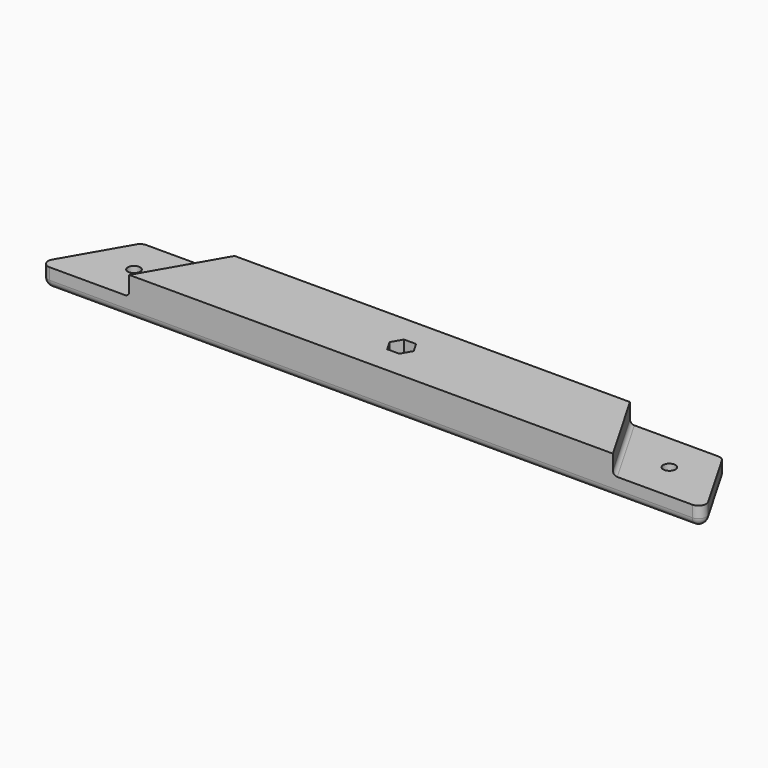
from build123d import *

# Parameters (mm, degrees)
PAD_DEPTH       = 10
POCKET_DEPTH    = 5
SKETCH002_R     = 1.6
POCKET001_DEPTH = 10.001
SKETCH003_R     = 1.6
POCKET002_DEPTH = 362.846575
POCKET003_DEPTH = 5
SKETCH005_R     = 3.1
POCKET004_DEPTH = 2
FILLET_R        = 2
FILLET001_R     = 2
FILLET002_R     = 2
FILLET003_R     = 2
FILLET004_R     = 2
FILLET005_R     = 1
FILLET006_R     = 1


with BuildPart() as part:
    # Sketch → Pad (new body)
    with BuildSketch(Plane.XY):
        Polygon((-75.952995, 10), (-87.5, -10), (87.5, -10), (75.952995, 10), align=None)
    extrude(amount=PAD_DEPTH)

    # Sketch001 → Pocket (cut)
    with BuildSketch(Plane.XY.offset(10)):
        Polygon((-75.952995, 10), (-51.704283, 10), (-63.251289, -10), (-87.5, -10), align=None)
    pocket = extrude(amount=-POCKET_DEPTH, mode=Mode.SUBTRACT)

    # Mirrored: Pocket across Sketch001 V_Axis
    add(pocket.mirror(Plane(origin=(0, 0, 10), x_dir=(0, 0, 1), z_dir=(1, 0, 0))), mode=Mode.SUBTRACT)

    # Sketch002 → Pocket001 (cut, through all)
    with BuildSketch(Plane(origin=(0, 0, 0), x_dir=(1, 0, 0), z_dir=(0, 0, -1))):
        Circle(SKETCH002_R)
    extrude(amount=-POCKET001_DEPTH, mode=Mode.SUBTRACT)

    # Sketch003 → Pocket002 (cut, through all)
    with BuildSketch(Plane(origin=(0, 0, 0), x_dir=(1, 0, 0), z_dir=(0, 0, -1))):
        with Locations((-70, 0)):
            Circle(SKETCH003_R)
    pocket002 = extrude(amount=-POCKET002_DEPTH, mode=Mode.SUBTRACT)

    # Mirrored001: Pocket002 across Sketch003 V_Axis
    add(pocket002.mirror(Plane(origin=(0, 0, 0), x_dir=(0, 0, -1), z_dir=(1, 0, 0))), mode=Mode.SUBTRACT)

    # Sketch004 → Pocket003 (cut)
    with BuildSketch(Plane.XY.offset(10)):
        Polygon((3.175426, 0), (1.587713, 2.75), (-1.587713, 2.75), (-3.175426, 0), (-1.587713, -2.75), (1.587713, -2.75), align=None)
    extrude(amount=-POCKET003_DEPTH, mode=Mode.SUBTRACT)

    # Sketch005 → Pocket004 (cut)
    with BuildSketch(Plane(origin=(0, 0, 0), x_dir=(1, 0, 0), z_dir=(0, 0, -1))):
        with Locations((-70, 0)):
            Circle(SKETCH005_R)
    pocket004 = extrude(amount=-POCKET004_DEPTH, mode=Mode.SUBTRACT)

    # Mirrored002: Pocket004 across Sketch005 V_Axis
    add(pocket004.mirror(Plane(origin=(0, 0, 0), x_dir=(0, 0, -1), z_dir=(1, 0, 0))), mode=Mode.SUBTRACT)

    # Fillet
    fillet_edges = [part.edges().sort_by_distance(p)[0] for p in [
        (-75.952995, 10, 2.5),
    ]]
    fillet(fillet_edges, radius=FILLET_R)

    # Fillet001
    fillet001_edges = [part.edges().sort_by_distance(p)[0] for p in [
        (-87.5, -10, 2.5),
    ]]
    fillet(fillet001_edges, radius=FILLET001_R)

    # Fillet002
    fillet002_edges = [part.edges().sort_by_distance(p)[0] for p in [
        (75.952995, 10, 2.5),
    ]]
    fillet(fillet002_edges, radius=FILLET002_R)

    # Fillet003
    fillet003_edges = [part.edges().sort_by_distance(p)[0] for p in [
        (87.5, -10, 2.5),
    ]]
    fillet(fillet003_edges, radius=FILLET003_R)

    # Fillet004
    fillet004_edges = [part.edges().sort_by_distance(p)[0] for p in [
        (-75.798294, 9.732051, 0),
    ]]
    fillet(fillet004_edges, radius=FILLET004_R)

    # Fillet005
    fillet005_edges = [part.edges().sort_by_distance(p)[0] for p in [
        (57.477786, 0, 5),
    ]]
    fillet(fillet005_edges, radius=FILLET005_R)

    # Fillet006
    fillet006_edges = [part.edges().sort_by_distance(p)[0] for p in [
        (-57.477786, 0, 5),
    ]]
    fillet(fillet006_edges, radius=FILLET006_R)


solid = part.part
